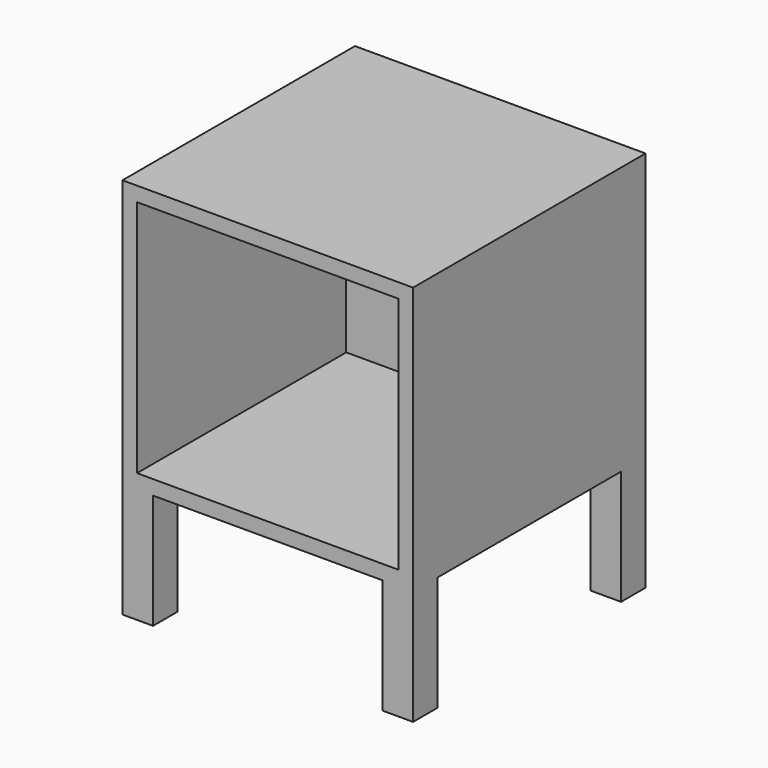
from build123d import *

# Parameters (mm, degrees)
F0_W     = 380
F0_H     = 380
F1_DEPTH = 350
F2_W     = 342
F2_H     = 312
F3_DEPTH = 342
F4_W     = 40
F4_H     = 40
F5_DEPTH = 150


with BuildPart() as f1:
    # F0 (on Top) → F1 (new body)
    with BuildSketch(Plane.XY):
        Rectangle(F0_W, F0_H)
    extrude(amount=F1_DEPTH)

    # F2 (on face) → F3 (cut)
    with BuildSketch(Plane.XZ.offset(190)):
        with Locations((0, 175)):
            Rectangle(F2_W, F2_H)
    extrude(amount=-F3_DEPTH, mode=Mode.SUBTRACT)

    # F4 (on face) → F5 (join)
    with BuildSketch(Plane(origin=(0, 0, 0), x_dir=(1, 0, 0), z_dir=(0, 0, -1))):
        with Locations((-170, 170)):
            Rectangle(F4_W, F4_H)
        with Locations((170, 170)):
            Rectangle(F4_W, F4_H)
        with Locations((170, -170)):
            Rectangle(F4_W, F4_H)
        with Locations((-170, -170)):
            Rectangle(F4_W, F4_H)
    extrude(amount=F5_DEPTH)


solid = f1.part
